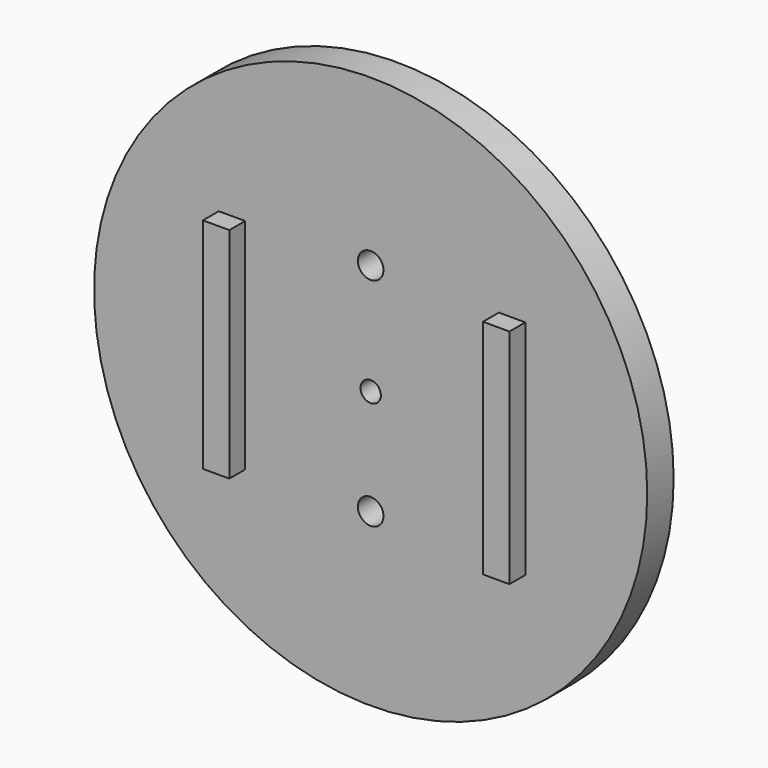
from build123d import *

# Parameters (mm, degrees)
F0_R     = 41.920471
F1_DEPTH = 5
F2_R     = 1.941315
F2_R_2   = 1.541244
F3_DEPTH = 50.7
F4_W     = 4
F4_H     = 33.157896
F4_H_2   = 33.714296
F6_DEPTH = 3


with BuildPart() as f1:
    # F0 (on Front) → F1 (new body)
    with BuildSketch(Plane.XZ):
        Circle(F0_R)
    extrude(amount=-F1_DEPTH)

    # F2 (on Front) → F3 (cut)
    with BuildSketch(Plane.XZ):
        with Locations((0, 16.827898)):
            Circle(F2_R)
        with Locations((0, -15.986843)):
            Circle(F2_R)
        Circle(F2_R_2)
    extrude(amount=-F3_DEPTH, mode=Mode.SUBTRACT)

    # F4 (on Front) → F6 (join)
    with BuildSketch(Plane.XZ):
        with Locations((-21.019738, 0)):
            Rectangle(F4_W, F4_H)
        with Locations((21.428579, 0)):
            Rectangle(F4_W, F4_H_2)
    extrude(amount=F6_DEPTH)


solid = f1.part
